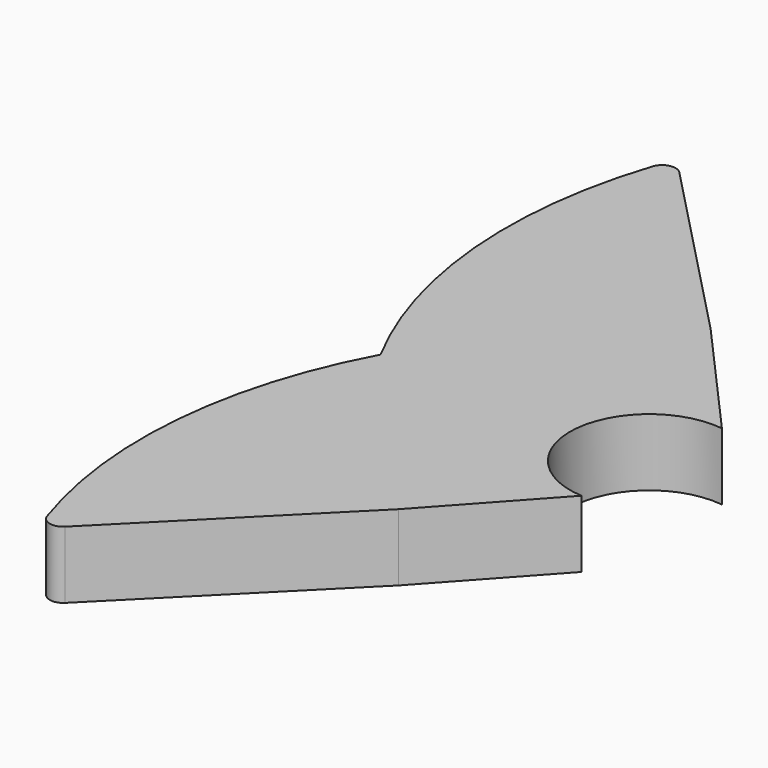
from build123d import *

# Parameters (mm, degrees)
F1_DEPTH = 12.7
F2_R     = 2.54
F4_DEPTH = 25.4


with BuildPart() as f1:
    # F0 (on Top) → F1 (new body)
    with BuildSketch(Plane.XY):
        with BuildLine():
            ThreePointArc((18.385943, -16.708252), (24.739692, -2.270726), (21.12025, 13.082187))
            Line((21.12025, 13.082187), (0, 36.817349))
            Line((0, 36.817349), (-37.818789, 76.065511))
            ThreePointArc((-37.818789, 76.065511), (-43.685006, 37.507391), (-32.992173, 0))
            ThreePointArc((-32.992173, 0), (-43.612045, -36.935455), (-37.818789, -74.928187))
            Line((-37.818789, -74.928187), (0, -36.940344))
            Line((0, -36.940344), (18.385943, -16.708252))
        make_face()
    extrude(amount=F1_DEPTH)

    # F2
    f2_edges = [f1.edges().sort_by_distance(p)[0] for p in [
        (-37.818789, -74.928187, 6.35),
        (-37.818789, 76.065511, 6.35),
    ]]
    fillet(f2_edges, radius=F2_R)

    # F3 (on face) → F4 (cut)
    with BuildSketch(Plane.XY.offset(12.7)):
        with BuildLine():
            ThreePointArc((18.385943, -16.708252), (24.739692, -2.270726), (21.12025, 13.082187))
            ThreePointArc((21.12025, 13.082187), (4.327566, -0.397205), (18.385943, -16.708252))
        make_face()
    extrude(amount=-F4_DEPTH, mode=Mode.SUBTRACT)


solid = f1.part
